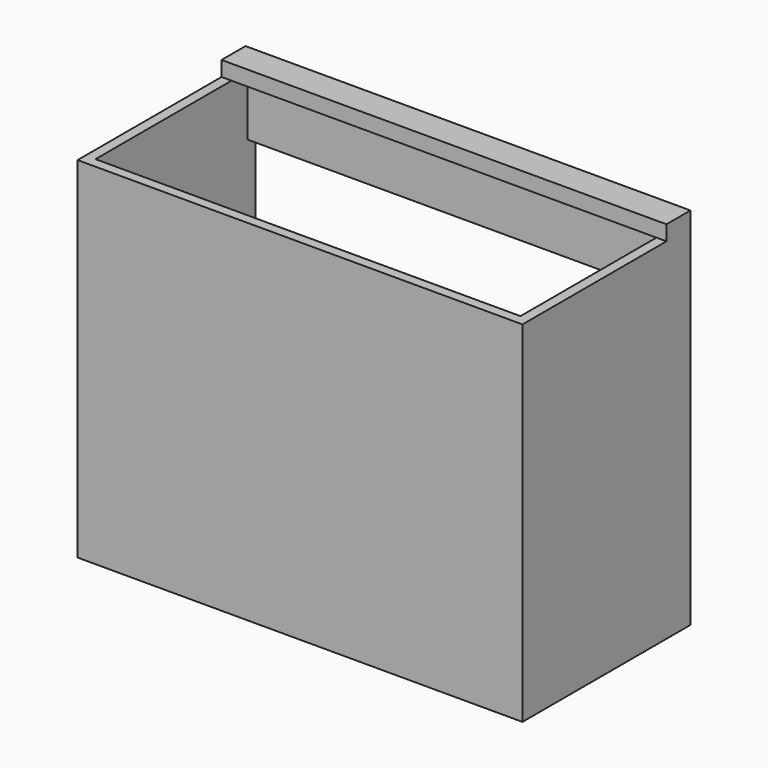
from build123d import *

# Parameters (mm, degrees)
F0_W     = 12.7
F0_H     = 254
F1_DEPTH = 444.5
F2_W     = 101.6
F2_H     = 76.2
F3_DEPTH = 12.7
F4_W     = 25.4
F4_H     = 19.05
F4_W_2   = 12.7
F4_H_2   = 76.2
F5_DEPTH = 69.85
F6_W     = 12.7
F6_H     = 76.2
F7_DEPTH = 539.75
F8_W     = 539.75
F8_H     = 25.4
F9_DEPTH = 19.05


with BuildPart() as f1:
    # F0 (on Top) → F1 (new body)
    with BuildSketch(Plane.XY):
        with Locations((6.35, -139.7)):
            Rectangle(F0_W, F0_H)
        Polygon((12.7, -266.7), (0, -266.7), (0, -279.4), (565.15, -279.4), (565.15, -266.7), (552.45, -266.7), align=None)
        with Locations((558.8, -139.7)):
            Rectangle(F0_W, F0_H)
    extrude(amount=F1_DEPTH)

    # F2 (on face) → F3 (cut, through all)
    with BuildSketch(Plane(origin=(0, 0, 0), x_dir=(0, -1, 0), z_dir=(-1, 0, 0))):
        with Locations((50.8, 38.1)):
            Rectangle(F2_W, F2_H)
    extrude(amount=-F3_DEPTH, mode=Mode.SUBTRACT)

    # F4 (on face) → F5 (join)
    with BuildSketch(Plane(origin=(0, 0, 0), x_dir=(0, -1, 0), z_dir=(-1, 0, 0))):
        Polygon((101.6, 0), (114.3, 0), (114.3, 88.9), (12.7, 88.9), (12.7, 76.2), (38.1, 76.2), (88.9, 76.2), (101.6, 76.2), align=None)
        with Locations((25.4, 66.675)):
            Rectangle(F4_W, F4_H)
        with Locations((95.25, 38.1)):
            Rectangle(F4_W_2, F4_H_2)
    extrude(amount=F5_DEPTH)

    # F6 (on face) → F7 (join, through all)
    with BuildSketch(Plane(origin=(552.45, 0, 0), x_dir=(0, -1, 0), z_dir=(-1, 0, 0))):
        with Locations((19.05, 406.4)):
            Rectangle(F6_W, F6_H)
    extrude(amount=F7_DEPTH)

    # F8 (on face) → F9 (join)
    with BuildSketch(Plane.XY.offset(444.5)):
        with Locations((282.575, -38.1)):
            Rectangle(F8_W, F8_H)
        Polygon((565.15, -12.7), (0, -12.7), (0, -50.8), (12.7, -50.8), (12.7, -25.4), (552.45, -25.4), (552.45, -50.8), (565.15, -50.8), align=None)
    extrude(amount=F9_DEPTH)


solid = f1.part
